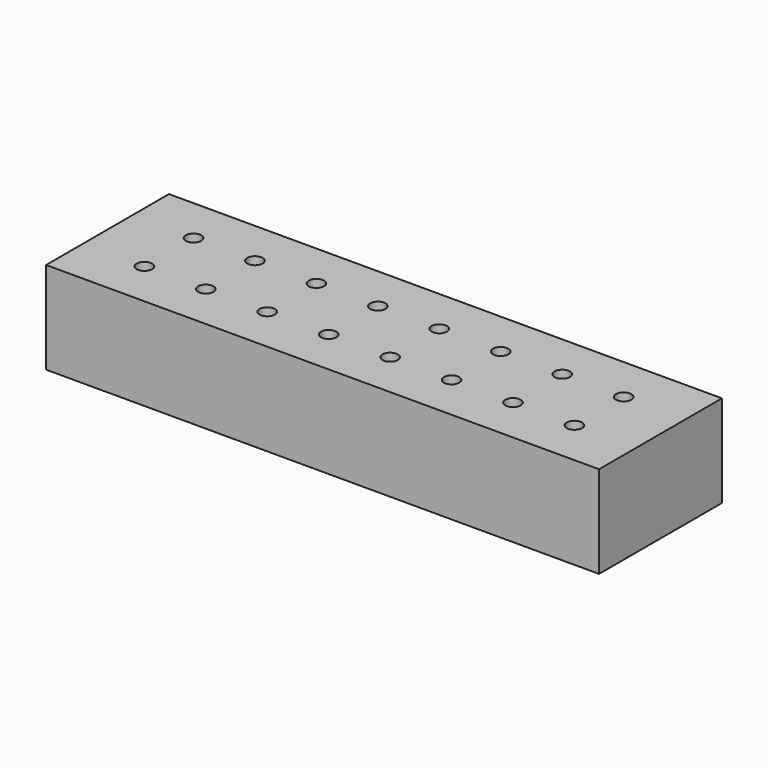
from build123d import *

# Parameters (mm, degrees)
F0_W     = 228.6
F0_H     = 63.5
F1_DEPTH = 38.1
F2_R     = 3.175
F3_DEPTH = 25.4


with BuildPart() as f1:
    # F0 (on Top) → F1 (new body)
    with BuildSketch(Plane.XY):
        Rectangle(F0_W, F0_H)
    extrude(amount=F1_DEPTH)

    # F2 (on face) → F3 (cut)
    with BuildSketch(Plane.XY.offset(38.1)):
        with Locations((-88.9, -12.7)):
            Circle(F2_R)
        with Locations((-88.9, 12.7)):
            Circle(F2_R)
        with Locations((-63.5, -12.7)):
            Circle(F2_R)
        with Locations((-63.5, 12.7)):
            Circle(F2_R)
        with Locations((-38.1, -12.7)):
            Circle(F2_R)
        with Locations((-38.1, 12.7)):
            Circle(F2_R)
        with Locations((-12.7, -12.7)):
            Circle(F2_R)
        with Locations((-12.7, 12.7)):
            Circle(F2_R)
        with Locations((12.7, -12.7)):
            Circle(F2_R)
        with Locations((12.7, 12.7)):
            Circle(F2_R)
        with Locations((38.1, -12.7)):
            Circle(F2_R)
        with Locations((38.1, 12.7)):
            Circle(F2_R)
        with Locations((63.5, -12.7)):
            Circle(F2_R)
        with Locations((63.5, 12.7)):
            Circle(F2_R)
        with Locations((88.9, -12.7)):
            Circle(F2_R)
        with Locations((88.9, 12.7)):
            Circle(F2_R)
    extrude(amount=-F3_DEPTH, mode=Mode.SUBTRACT)


solid = f1.part
